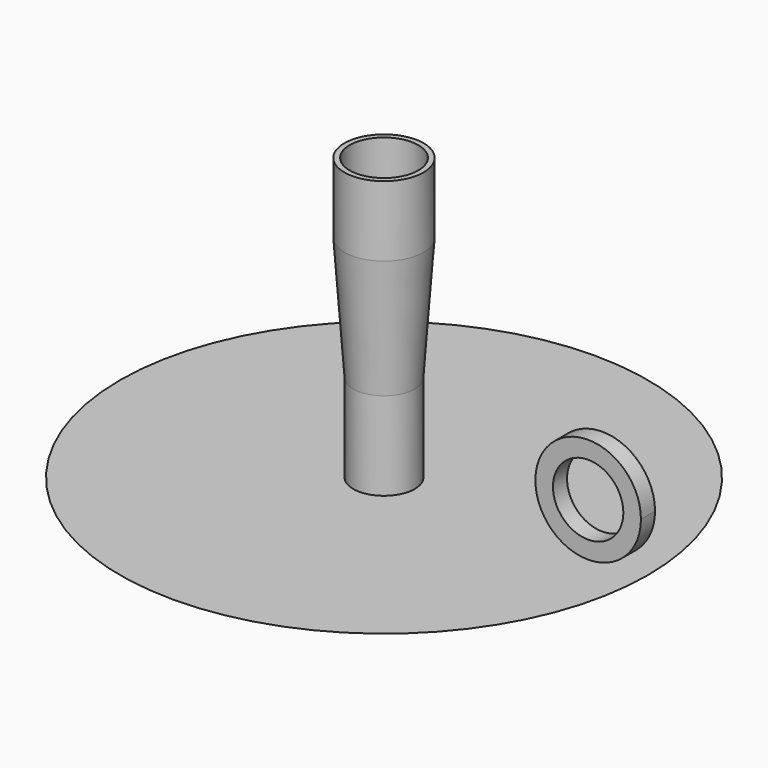
from build123d import *

# Parameters (mm, degrees)
F0_W     = 3
F0_H     = 40
F0_W_2   = 17.5
F0_H_2   = 50
F0_R     = 20
F2_DEPTH = 5


with BuildPart() as f1:
    # F0 (on Front) → F1 (revolve)
    with BuildSketch(Plane.XZ):
        with Locations((21, 115)):
            Rectangle(F0_W, F0_H)
        Polygon((0, 25), (17.5, 25), (22.5, 95), (19.5, 95), (0, 95), align=None)
        with Locations((8.75, 0)):
            Rectangle(F0_W_2, F0_H_2)
        Polygon((120, -25), (17.5, -25), (0, -25), (0, -50), (100, -50), (150, -25), align=None)
    revolve(axis=Axis((0, 0, 42.5), (0, 0, -1)))

    # F0 (on Front) → F2 (join, symmetric)
    with BuildSketch(Plane.XZ):
        with BuildLine():
            ThreePointArc((150, 5), (98.786797, 26.213203), (120, -25))
            ThreePointArc((120, -25), (141.213203, -16.213203), (150, 5))
        make_face()
        with Locations((120, 5)):
            Circle(F0_R, mode=Mode.SUBTRACT)
    extrude(amount=F2_DEPTH, both=True)


solid = f1.part
